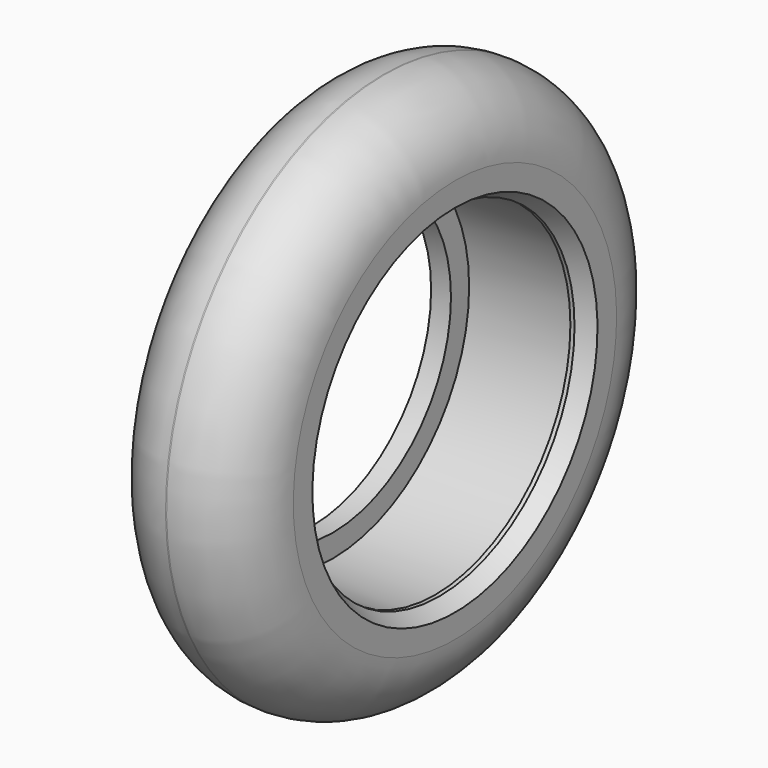
from build123d import *

# Parameters (mm, degrees)
F2_SIZE2 = 1.3856406461
F2_SIZE  = 0.8


with BuildPart() as f1:
    # F0 (on Front) → F1 (revolve)
    with BuildSketch(Plane.XZ):
        with BuildLine():
            Line((6.3, 24), (6.2, 24))
            ThreePointArc((6.2, 24), (1.8159379566, 22.1840620434), (0, 17.8))
            Line((0, 17.8), (0, 13))
            Line((0, 13), (1.75, 13))
            Line((1.75, 13), (1.75, 15))
            Line((1.75, 15), (10.75, 15))
            Line((10.75, 15), (10.75, 14.9))
            Line((10.75, 14.9), (12.5, 14.9))
            Line((12.5, 14.9), (12.5, 17.8))
            ThreePointArc((12.5, 17.8), (10.6840620434, 22.1840620434), (6.3, 24))
        make_face()
    revolve(axis=Axis((16.1859672517, 0, 0), (1, 0, 0)))

    # F2
    f2_edges = [f1.edges().sort_by_distance(p)[0] for p in [
        (12.5, 0, -14.9),
    ]]
    f2_side = f1.faces().sort_by_distance((12.5, 0, -15.40346))[0]
    chamfer(f2_edges, length=F2_SIZE, length2=F2_SIZE2, reference=f2_side)


solid = f1.part
